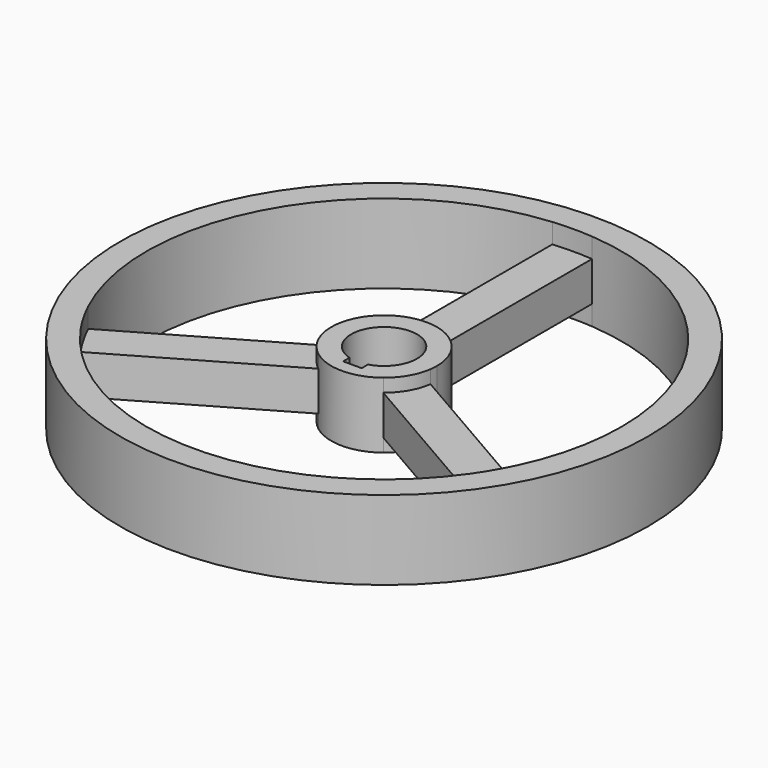
from build123d import *

# Parameters (mm, degrees)
F0_R     = 127
F1_DEPTH = 19.05
F2_DEPTH = 9.525
F3_DEPTH = 15.875


with BuildPart() as f1:
    # F0 (on Top) → F1 (new body, symmetric)
    with BuildSketch(Plane.XY):
        Circle(F0_R)
        with BuildLine():
            ThreePointArc((-10.16, 113.847549), (-0.637216, 114.298224), (8.89, 113.953753))
            ThreePointArc((8.89, 113.953753), (83.906546, 77.615601), (114.3, 0))
            ThreePointArc((114.3, 0), (111.542974, -24.953054), (103.404901, -48.702325))
            ThreePointArc((103.404901, -48.702325), (98.986704, -57.15), (93.879901, -65.200109))
            ThreePointArc((93.879901, -65.200109), (0, -114.3), (-93.879901, -65.200109))
            ThreePointArc((-93.879901, -65.200109), (-98.986704, -57.15), (-103.404901, -48.702325))
            ThreePointArc((-103.404901, -48.702325), (-99.145661, 56.87379), (-10.16, 113.847549))
        make_face(mode=Mode.SUBTRACT)
    extrude(amount=F1_DEPTH, both=True)

    # F0 (on Top) → F2 (join, symmetric)
    with BuildSketch(Plane.XY):
        Circle(F0_R)
        with BuildLine():
            ThreePointArc((-10.16, 113.847549), (-0.637216, 114.298224), (8.89, 113.953753))
            ThreePointArc((8.89, 113.953753), (83.906546, 77.615601), (114.3, 0))
            ThreePointArc((114.3, 0), (111.542974, -24.953054), (103.404901, -48.702325))
            ThreePointArc((103.404901, -48.702325), (98.986704, -57.15), (93.879901, -65.200109))
            ThreePointArc((93.879901, -65.200109), (0, -114.3), (-93.879901, -65.200109))
            ThreePointArc((-93.879901, -65.200109), (-98.986704, -57.15), (-103.404901, -48.702325))
            ThreePointArc((-103.404901, -48.702325), (-99.145661, 56.87379), (-10.16, 113.847549))
        make_face(mode=Mode.SUBTRACT)
        with BuildLine():
            ThreePointArc((-10.16, 23.279485), (-0.685028, 25.390761), (8.89, 23.793442))
            Line((8.89, 23.793442), (8.89, 113.953753))
            ThreePointArc((8.89, 113.953753), (-0.637216, 114.298224), (-10.16, 113.847549))
            Line((-10.16, 113.847549), (-10.16, 23.279485))
        make_face()
        with BuildLine():
            ThreePointArc((-15.629307, -20.022107), (-21.997045, -12.7), (-25.154307, -3.524323))
            Line((-25.154307, -3.524323), (-103.404901, -48.702325))
            ThreePointArc((-103.404901, -48.702325), (-98.986704, -57.15), (-93.879901, -65.200109))
            Line((-93.879901, -65.200109), (-15.629307, -20.022107))
        make_face()
        with BuildLine():
            Line((103.404901, -48.702325), (25.154307, -3.524323))
            ThreePointArc((25.154307, -3.524323), (21.997045, -12.7), (15.629307, -20.022107))
            Line((15.629307, -20.022107), (93.879901, -65.200109))
            ThreePointArc((93.879901, -65.200109), (98.986704, -57.15), (103.404901, -48.702325))
        make_face()
    extrude(amount=F2_DEPTH, both=True)

    # F0 (on Top) → F3 (join, symmetric)
    with BuildSketch(Plane.XY):
        with BuildLine():
            ThreePointArc((25.154307, -3.524323), (25.338502, -1.766438), (25.4, 0))
            ThreePointArc((25.4, 0), (20.868229, 14.480228), (8.89, 23.793442))
            ThreePointArc((8.89, 23.793442), (-0.685028, 25.390761), (-10.16, 23.279485))
            ThreePointArc((-10.16, 23.279485), (-22.16723, 12.400561), (-25.154307, -3.524323))
            ThreePointArc((-25.154307, -3.524323), (-21.997045, -12.7), (-15.629307, -20.022107))
            ThreePointArc((-15.629307, -20.022107), (0, -25.4), (15.629307, -20.022107))
            ThreePointArc((15.629307, -20.022107), (21.997045, -12.7), (25.154307, -3.524323))
        make_face()
        with BuildLine():
            ThreePointArc((-4.445, -15.24), (0, 15.875), (4.445, -15.24))
            Line((4.445, -15.24), (4.445, -19.05))
            Line((4.445, -19.05), (-4.445, -19.05))
            Line((-4.445, -19.05), (-4.445, -15.24))
        make_face(mode=Mode.SUBTRACT)
    extrude(amount=F3_DEPTH, both=True)


solid = f1.part
